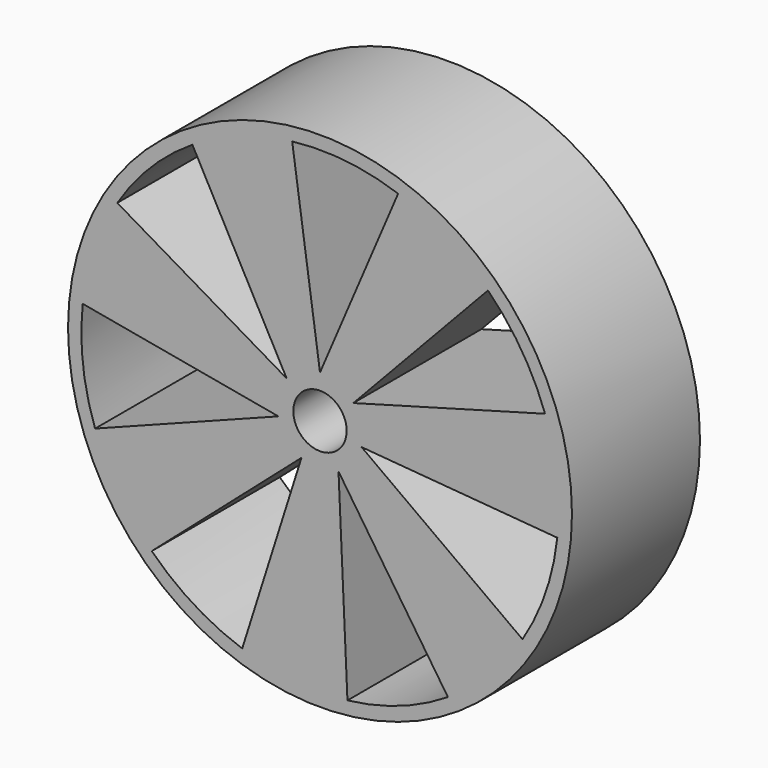
from build123d import *

# Parameters (mm, degrees)
F0_R     = 30
F1_DEPTH = 19.05
F0_R_2   = 3.175
F2_DEPTH = 19.05


with BuildPart() as f1:
    # F0 (on Front) → F1 (new body)
    with BuildSketch(Plane.XZ):
        Circle(F0_R)
        with BuildLine():
            ThreePointArc((-15.1925895519, 24.0154928425), (-9.4885710036, 26.7866700818), (-3.3120353789, 28.2239099951))
            ThreePointArc((-3.3120353789, 28.2239099951), (3.0733934985, 28.2508924844), (9.3036437218, 26.8514596858))
            ThreePointArc((9.3036437218, 26.8514596858), (15.0266347255, 24.119679156), (20.0013211104, 20.1867735808))
            ThreePointArc((20.0013211104, 20.1867735808), (24.0036666555, 15.2112675623), (26.7940435133, 9.4677297158))
            ThreePointArc((26.7940435133, 9.4677297158), (28.0087527775, 4.8029617543), (28.4175768454, 0))
            ThreePointArc((28.4175768454, 0), (28.376471618, -1.5279176275), (28.2532748509, -3.051415075))
            ThreePointArc((28.2532748509, -3.051415075), (26.8586892354, -9.2827520875), (24.1079820404, -15.0453938367))
            ThreePointArc((24.1079820404, -15.0453938367), (20.1712076487, -20.0170191526), (15.229936367, -23.9918259418))
            ThreePointArc((15.229936367, -23.9918259418), (9.4885710036, -26.7866700818), (3.2681183779, -28.2290289601))
            ThreePointArc((3.2681183779, -28.2290289601), (-3.0733934985, -28.2508924844), (-9.2618548354, -26.8659025303))
            ThreePointArc((-9.2618548354, -26.8659025303), (-15.0266347255, -24.119679156), (-20.0327050806, -20.1556295092))
            ThreePointArc((-20.0327050806, -20.1556295092), (-24.0036666555, -15.2112675623), (-26.7792804393, -9.509406549))
            ThreePointArc((-26.7792804393, -9.509406549), (-28.2264780188, -3.2900778739), (-28.2484930207, 3.095370062))
            ThreePointArc((-28.2484930207, 3.095370062), (-26.8586892354, 9.2827520875), (-24.1313616746, 15.0078665203))
            ThreePointArc((-24.1313616746, 15.0078665203), (-20.1712076487, 20.0170191526), (-15.1925895519, 24.0154928425))
        make_face(mode=Mode.SUBTRACT)
    extrude(amount=F1_DEPTH)

    # F0 (on Front) → F2 (join)
    with BuildSketch(Plane.XZ):
        with BuildLine():
            Line((-0.0086937801, 5.1407505785), (-3.3120353789, 28.2239099951))
            ThreePointArc((-3.3120353789, 28.2239099951), (-9.4885710036, 26.7866700818), (-15.1925895519, 24.0154928425))
            Line((-15.1925895519, 24.0154928425), (-4.0029845, 3.2254468194))
            ThreePointArc((-4.0029845, 3.2254468194), (-2.2227208053, 4.6353968885), (-0.0086937801, 5.1407505785))
        make_face()
        with BuildLine():
            ThreePointArc((20.0013211104, 20.1867735808), (15.0266347255, 24.119679156), (9.3036437218, 26.8514596858))
            Line((9.3036437218, 26.8514596858), (0.0259358557, 5.1406925043))
            ThreePointArc((0.0259358557, 5.1406925043), (2.2382554667, 4.6279157898), (4.0137801625, 3.2120026306))
            Line((4.0137801625, 3.2120026306), (20.0013211104, 20.1867735808))
        make_face()
        with BuildLine():
            ThreePointArc((28.4175768454, 0), (28.0087527775, 4.8029617543), (26.7940435133, 9.4677297158))
            Line((26.7940435133, 9.4677297158), (4.035325983, 3.1848918824))
            ThreePointArc((4.035325983, 3.1848918824), (4.8565433251, 1.6856390547), (5.1407579297, 0))
            ThreePointArc((5.1407579297, 0), (5.108918794, -0.5712625033), (5.0137957766, -1.135448811))
            Line((5.0137957766, -1.135448811), (28.2532748509, -3.051415075))
            ThreePointArc((28.2532748509, -3.051415075), (28.376471618, -1.5279176275), (28.4175768454, 0))
        make_face()
        with BuildLine():
            ThreePointArc((15.229936367, -23.9918259418), (20.1712076487, -20.0170191526), (24.1079820404, -15.0453938367))
            Line((24.1079820404, -15.0453938367), (5.0060333395, -1.1691972868))
            ThreePointArc((5.0060333395, -1.1691972868), (4.0138255819, -3.2119458729), (2.2383209081, -4.627884139))
            Line((2.2383209081, -4.627884139), (15.229936367, -23.9918259418))
        make_face()
        with BuildLine():
            Line((-2.2226552576, -4.6354283187), (-9.2618548354, -26.8659025303))
            ThreePointArc((-9.2618548354, -26.8659025303), (-3.0733934985, -28.2508924844), (3.2681183779, -28.2290289601))
            Line((3.2681183779, -28.2290289601), (2.2070954869, -4.6428570518))
            ThreePointArc((2.2070954869, -4.6428570518), (-0.0086210867, -5.1407507009), (-2.2226552576, -4.6354283187))
        make_face()
        with BuildLine():
            Line((-5.0099266804, -1.1524004289), (-26.7792804393, -9.509406549))
            ThreePointArc((-26.7792804393, -9.509406549), (-24.0036666555, -15.2112675623), (-20.0327050806, -20.1556295092))
            Line((-20.0327050806, -20.1556295092), (-2.2538302839, -4.6203507598))
            ThreePointArc((-2.2538302839, -4.6203507598), (-4.0245759011, -3.1984653989), (-5.0099266804, -1.1524004289))
        make_face()
        with BuildLine():
            Line((-4.024621129, 3.1984084886), (-24.1313616746, 15.0078665203))
            ThreePointArc((-24.1313616746, 15.0078665203), (-26.8586892354, 9.2827520875), (-28.2484930207, 3.095370062))
            Line((-28.2484930207, 3.095370062), (-5.0175758812, -1.1186261076))
            ThreePointArc((-5.0175758812, -1.1186261076), (-5.0099429756, 1.1523295852), (-4.024621129, 3.1984084886))
        make_face()
        with BuildLine():
            Line((0, 5.08), (-0.0086937801, 5.1407505785))
            ThreePointArc((-0.0086937801, 5.1407505785), (-2.2227208053, 4.6353968885), (-4.0029845, 3.2254468194))
            Line((-4.0029845, 3.2254468194), (-3.9717039309, 3.1673281934))
            Line((-3.9717039309, 3.1673281934), (-4.024621129, 3.1984084886))
            ThreePointArc((-4.024621129, 3.1984084886), (-5.0099429756, 1.1523295852), (-5.0175758812, -1.1186261076))
            Line((-5.0175758812, -1.1186261076), (-4.9526337939, -1.1304063445))
            Line((-4.9526337939, -1.1304063445), (-5.0099266804, -1.1524004289))
            ThreePointArc((-5.0099266804, -1.1524004289), (-4.0245759011, -3.1984653989), (-2.2538302839, -4.6203507598))
            Line((-2.2538302839, -4.6203507598), (-2.2041293947, -4.5769218489))
            Line((-2.2041293947, -4.5769218489), (-2.2226552576, -4.6354283187))
            ThreePointArc((-2.2226552576, -4.6354283187), (-0.0086210867, -5.1407507009), (2.2070954869, -4.6428570518))
            Line((2.2070954869, -4.6428570518), (2.2041293947, -4.5769218489))
            Line((2.2041293947, -4.5769218489), (2.2383209081, -4.627884139))
            ThreePointArc((2.2383209081, -4.627884139), (4.0138255819, -3.2119458729), (5.0060333395, -1.1691972868))
            Line((5.0060333395, -1.1691972868), (4.9526337939, -1.1304063445))
            Line((4.9526337939, -1.1304063445), (5.0137957766, -1.135448811))
            ThreePointArc((5.0137957766, -1.135448811), (5.108918794, -0.5712625033), (5.1407579297, 0))
            ThreePointArc((5.1407579297, 0), (4.8565433251, 1.6856390547), (4.035325983, 3.1848918824))
            Line((4.035325983, 3.1848918824), (3.9717039309, 3.1673281934))
            Line((3.9717039309, 3.1673281934), (4.0137801625, 3.2120026306))
            ThreePointArc((4.0137801625, 3.2120026306), (2.2382554667, 4.6279157898), (0.0259358557, 5.1406925043))
            Line((0.0259358557, 5.1406925043), (0, 5.08))
        make_face()
        Circle(F0_R_2, mode=Mode.SUBTRACT)
    extrude(amount=F2_DEPTH)


solid = f1.part
